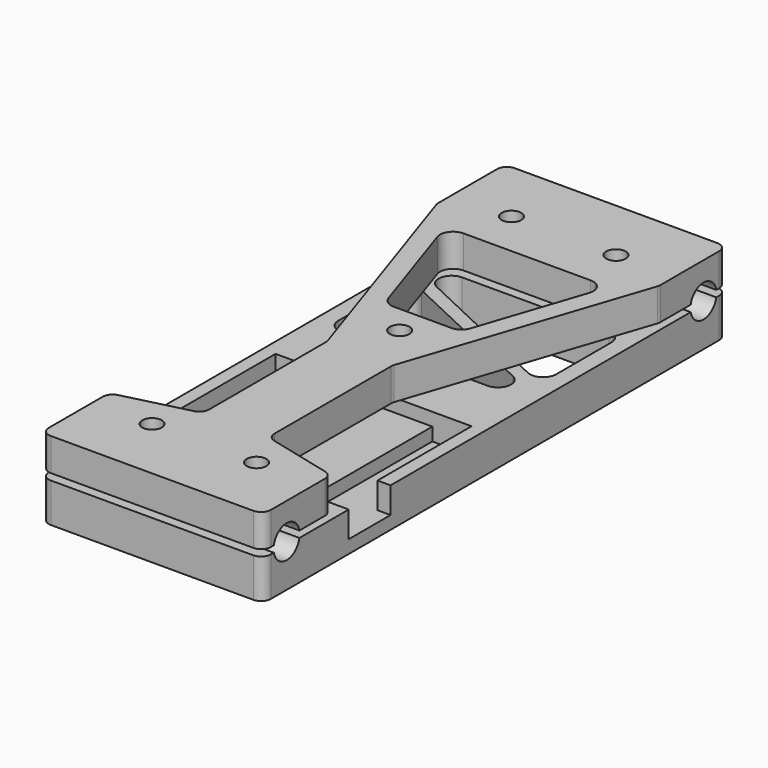
from build123d import *

# Parameters (mm, degrees)
PAD_DEPTH            = 6
POCKET_DEPTH         = 2
SKETCH002_W          = 7
SKETCH002_H          = 26
POCKET001_DEPTH      = 4
SKETCH003_R          = 1.5
POCKET002_DEPTH      = 6.001
SKETCH004_R          = 2.5
POCKET003_DEPTH      = 17.001
POCKET003_DEPTH_BACK = -17.001
FILLET_R             = 1.5
SKETCH005_R          = 1.5
POCKET004_DEPTH      = 6.001
SKETCH006_R          = 1.5
PAD001_DEPTH         = 5
SKETCH007_R          = 2.5
POCKET005_DEPTH      = 17.001
POCKET005_DEPTH_BACK = -17.001
SKETCH009_R          = 1.5
POCKET006_DEPTH      = 0.001
POCKET006_DEPTH_BACK = -5.001
FILLET001_R          = 1.5


with BuildPart() as body:
    # Sketch → Pad (new body)
    with BuildSketch(Plane.XY):
        Polygon((17, 44.380822), (17, -44.380822), (-17, -44.380822), (-17, 44.380822), (0, 44.380822), align=None)
    extrude(amount=PAD_DEPTH)

    # Sketch001 (on DatumPlane) → Pocket (cut)
    with BuildSketch(Plane.XY.offset(6)):
        Polygon((15, -2), (15, -28), (-15, -28), (-15, -2), (0, -2), align=None)
    extrude(amount=-POCKET_DEPTH, mode=Mode.SUBTRACT)

    # Sketch002 (on DatumPlane) → Pocket001 (cut)
    with BuildSketch(Plane.XY.offset(6)):
        with Locations((-11.5, -15)):
            Rectangle(SKETCH002_W, SKETCH002_H)
        Polygon((15, -2), (9, -2), (9, -28), (17, -28), (17, -20), (15, -20), align=None)
    extrude(amount=-POCKET001_DEPTH, mode=Mode.SUBTRACT)

    # Sketch003 (on DatumPlane) → Pocket002 (cut, through all)
    with BuildSketch(Plane.XY.offset(6)):
        with Locations((-8, 34.380822)):
            Circle(SKETCH003_R)
        with Locations((8, 34.380822)):
            Circle(SKETCH003_R)
        with Locations((-8, -34.380822)):
            Circle(SKETCH003_R)
        with Locations((8, -34.380822)):
            Circle(SKETCH003_R)
    extrude(amount=-POCKET002_DEPTH, mode=Mode.SUBTRACT)

    # Sketch004 (on DatumPlane) → Pocket003 (cut, two sides)
    with BuildSketch(Plane.YZ) as pocket003_sk:
        with Locations((-39.880822, 6.5)):
            Circle(SKETCH004_R)
        with Locations((39.880822, 6.5)):
            Circle(SKETCH004_R)
    extrude(amount=-POCKET003_DEPTH, mode=Mode.SUBTRACT)
    extrude(pocket003_sk.sketch, amount=-POCKET003_DEPTH_BACK, mode=Mode.SUBTRACT)

    # Fillet
    fillet_edges = [body.edges().sort_by_distance(p)[0] for p in [
        (17, -44.380822, 3),
        (-17, -44.380822, 3),
        (17, 44.380822, 3),
        (-17, 44.380822, 3),
    ]]
    fillet(fillet_edges, radius=FILLET_R)

    # Sketch005 (on DatumPlane) → Pocket004 (cut, through all)
    with BuildSketch(Plane.XY.offset(6)):
        with Locations((0, 3)):
            Circle(SKETCH005_R)
        with BuildLine():
            Line((-9.943117, 27.380822), (12.5, 27.380822))
            ThreePointArc((14.5, 25.380822), (13.914214, 26.795036), (12.5, 27.380822))
            Line((14.5, 25.380822), (14.5, 14.808746))
            ThreePointArc((11.647706, 12.999438), (13.57131, 13.119872), (14.5, 14.808746))
            Line((-10.795411, 23.571515), (11.647706, 12.999438))
            ThreePointArc((-9.943117, 27.380822), (-11.894862, 25.817506), (-10.795411, 23.571515))
        make_face()
        with BuildLine():
            Line((-11.647706, 21.762207), (10.795411, 11.19013))
            ThreePointArc((9.943117, 7.380822), (11.894862, 8.944139), (10.795411, 11.19013))
            Line((9.943117, 7.380822), (-12.5, 7.380822))
            ThreePointArc((-14.5, 9.380822), (-13.914214, 7.966609), (-12.5, 7.380822))
            Line((-14.5, 19.952899), (-14.5, 9.380822))
            ThreePointArc((-11.647706, 21.762207), (-13.57131, 21.641773), (-14.5, 19.952899))
        make_face()
    extrude(amount=-POCKET004_DEPTH, mode=Mode.SUBTRACT)


with BuildPart() as body001:
    # Sketch006 (on DatumPlane) → Pad001 (new body)
    with BuildSketch(Plane.XY.offset(7)):
        Polygon((-17, 44.380822), (17, 44.380822), (17, 31.380822), (5, -4.620822), (5, -28.380822), (17, -31.380822), (17, -44.380822), (0, -44.380822), (-17, -44.380822), (-17, -31.380822), (-5, -28.380822), (-5, -4.620822), (-17, 31.380822), align=None)
        with Locations((0, 3)):
            Circle(SKETCH006_R, mode=Mode.SUBTRACT)
        with BuildLine():
            Line((-9.729653, 27.380822), (9.729653, 27.380822))
            ThreePointArc((11.627028, 24.748393), (11.352129, 26.550254), (9.729653, 27.380822))
            Line((6.283665, 8.71757), (11.627028, 24.748393))
            ThreePointArc((4.386289, 7.35), (5.555721, 7.727524), (6.283665, 8.71757))
            Line((-4.386289, 7.35), (4.386289, 7.35))
            ThreePointArc((-6.283665, 8.71757), (-5.555721, 7.727524), (-4.386289, 7.35))
            Line((-11.627028, 24.748393), (-6.283665, 8.71757))
            ThreePointArc((-9.729653, 27.380822), (-11.352129, 26.550254), (-11.627028, 24.748393))
        make_face(mode=Mode.SUBTRACT)
    extrude(amount=PAD001_DEPTH)

    # Sketch007 (on DatumPlane) → Pocket005 (cut, two sides)
    with BuildSketch(Plane.YZ) as pocket005_sk:
        with Locations((-39.880822, 6.5)):
            Circle(SKETCH007_R)
        with Locations((39.880822, 6.5)):
            Circle(SKETCH007_R)
    extrude(amount=-POCKET005_DEPTH, mode=Mode.SUBTRACT)
    extrude(pocket005_sk.sketch, amount=-POCKET005_DEPTH_BACK, mode=Mode.SUBTRACT)

    # Sketch009 (on DatumPlane) → Pocket006 (cut, two sides)
    with BuildSketch(Plane.XY.offset(7)) as pocket006_sk:
        with Locations((-8, 34.380822)):
            Circle(SKETCH009_R)
        with Locations((8, 34.380822)):
            Circle(SKETCH009_R)
        with Locations((-8, -34.380822)):
            Circle(SKETCH009_R)
        with Locations((8, -34.380822)):
            Circle(SKETCH009_R)
    extrude(amount=-POCKET006_DEPTH, mode=Mode.SUBTRACT)
    extrude(pocket006_sk.sketch, amount=-POCKET006_DEPTH_BACK, mode=Mode.SUBTRACT)

    # Fillet001
    fillet001_edges = [body001.edges().sort_by_distance(p)[0] for p in [
        (5, -4.620822, 9.5),
        (5, -28.380822, 9.5),
        (17, -31.380822, 9.5),
        (17, 31.380822, 9.5),
        (17, -44.380822, 9.5),
        (17, 44.380822, 9.5),
        (-17, 44.380822, 9.5),
        (-17, 31.380822, 9.5),
        (-5, -4.620822, 9.5),
        (-5, -28.380822, 9.5),
        (-17, -31.380822, 9.5),
        (-17, -44.380822, 9.5),
    ]]
    fillet(fillet001_edges, radius=FILLET001_R)


solid = Compound([body.part, body001.part])
